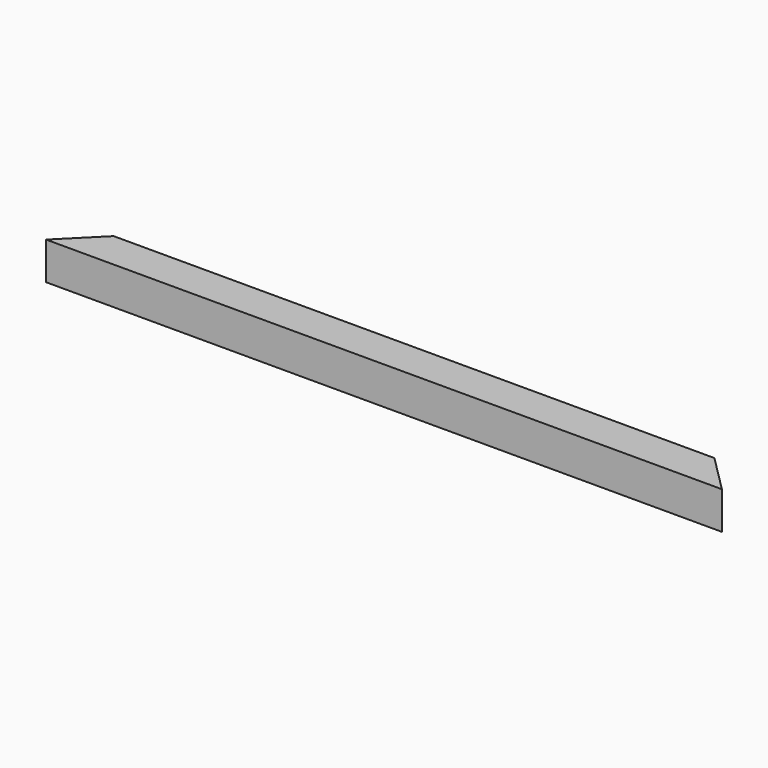
from build123d import *

# Parameters (mm, degrees)
F1_DEPTH = 50
F2_T     = -2.54


with BuildPart() as f1:
    # F0 (on Top) → F1 (new body)
    with BuildSketch(Plane.XY):
        Polygon((400, 0), (0, 0), (0, -50), (450, -50), align=None)
        Polygon((0, -50), (0, 0), (-400, 0), (-450, -50), align=None)
    extrude(amount=F1_DEPTH)

    # F2
    f2_openings = [f1.faces().sort_by_distance(p)[0] for p in [
        (425, -25, 25),
        (-425, -25, 25),
    ]]
    offset(amount=F2_T, openings=f2_openings)


solid = f1.part
